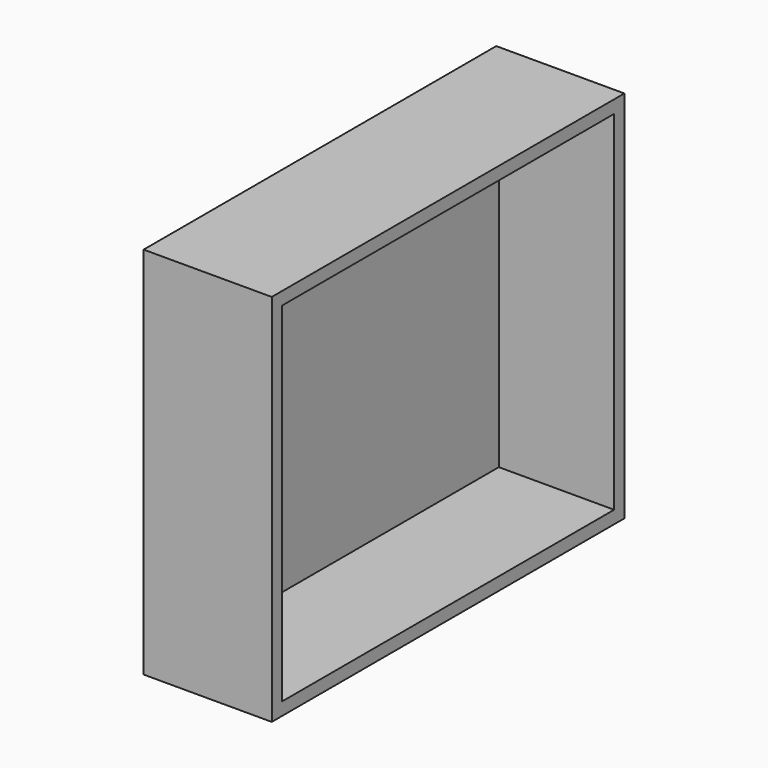
from build123d import *

# Parameters (mm, degrees)
F0_W     = 86
F0_H     = 73
F1_DEPTH = 25
F2_T     = -2.5


with BuildPart() as f1:
    # F0 (on Right) → F1 (new body)
    with BuildSketch(Plane.YZ):
        Rectangle(F0_W, F0_H)
    extrude(amount=F1_DEPTH)

    # F2
    f2_openings = [f1.faces().sort_by_distance(p)[0] for p in [
        (25, 0, 0),
    ]]
    offset(amount=F2_T, openings=f2_openings)


solid = f1.part
